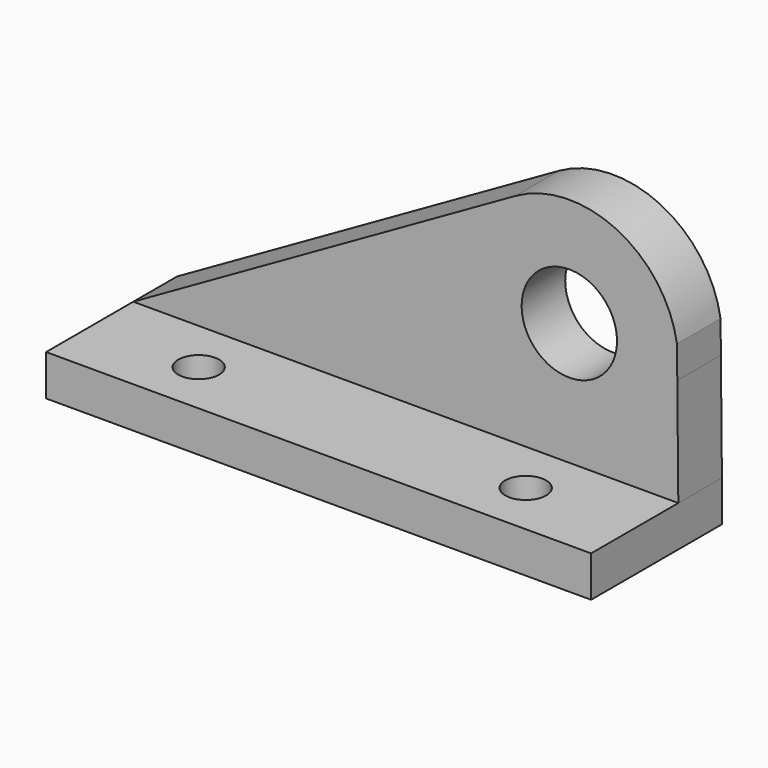
from build123d import *

# Parameters (mm, degrees)
F1_DEPTH = 38.1
F2_DEPTH = 12.7
F3_D     = 22.225
F5_D     = 9.525
F6_D     = 9.525


with BuildPart() as f1:
    # F0 (on Front) → F1 (new body)
    with BuildSketch(Plane.XZ):
        Polygon((0, 9.525), (0, 0), (127, 0), (127, 9.525), (101.6, 9.525), align=None)
    extrude(amount=F1_DEPTH)

    # F0 (on Front) → F2 (join)
    with BuildSketch(Plane.XZ):
        with BuildLine():
            Line((89.0406588905, 60.1776572782), (0, 9.525))
            Line((0, 9.525), (101.6, 9.525))
            Line((101.6, 9.525), (127, 9.525))
            Line((127, 9.525), (126.7595108524, 34.6130222733))
            Line((126.7595108524, 34.6130222733), (126.6880426637, 42.0686414936))
            ThreePointArc((126.6880426637, 42.0686414936), (112.6102771914, 60.989600175), (89.0406588905, 60.1776572782))
        make_face()
    extrude(amount=F2_DEPTH)

    # F3 (through all)
    with Locations(Plane(origin=(0, 0, 0), x_dir=(1, 0, 0), z_dir=(0, 1, 0))):
        with Locations((101.6, -38.1)):
            Hole(F3_D / 2)

    # F5 (through all)
    with Locations(Plane.XY.offset(9.525)):
        with Locations((25.399999693, -25.4)):
            Hole(F5_D / 2)

    # F6 (through all)
    with Locations(Plane.XY.offset(9.525)):
        with Locations((101.6, -25.4)):
            Hole(F6_D / 2)


solid = f1.part
